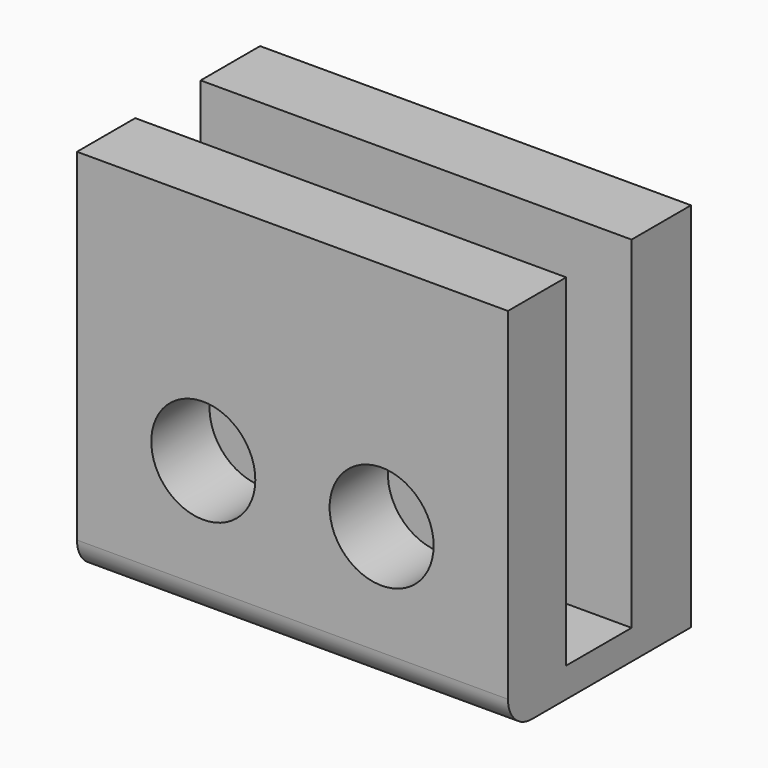
from build123d import *

# Parameters (mm, degrees)
F0_W     = 29
F0_H     = 4.9
F0_H_2   = 5.5
F0_R     = 1
F0_H_3   = 5
F1_DEPTH = 2
F2_DEPTH = 25
F3_R     = 1
F4_DEPTH = 25
F3_R_2   = 3.5
F5_DEPTH = 13
F6_R     = 2


with BuildPart() as f1:
    # F0 (on Top) → F1 (new body)
    with BuildSketch(Plane.XY):
        with Locations((0, -7.95)):
            Rectangle(F0_W, F0_H)
        with Locations((0, -2.75)):
            Rectangle(F0_W, F0_H_2)
        with Locations((0, -3)):
            Circle(F0_R, mode=Mode.SUBTRACT)
        with Locations((0, 2.5)):
            Rectangle(F0_W, F0_H_3)
    extrude(amount=F1_DEPTH)

    # F0 (on Top) → F2 (join)
    with BuildSketch(Plane.XY):
        with Locations((0, -7.95)):
            Rectangle(F0_W, F0_H)
        with Locations((0, 2.5)):
            Rectangle(F0_W, F0_H_3)
    extrude(amount=F2_DEPTH)

    # F3 (on face) → F4 (cut)
    with BuildSketch(Plane.XZ.offset(10.4)):
        with Locations((6, 9.462781)):
            Circle(F3_R)
        with Locations((-6, 9.462781)):
            Circle(F3_R)
    extrude(amount=-F4_DEPTH, mode=Mode.SUBTRACT)

    # F3 (on face) → F5 (cut)
    with BuildSketch(Plane.XZ.offset(10.4)):
        with Locations((-6, 9.462781)):
            Circle(F3_R_2)
        with Locations((-6, 9.462781)):
            Circle(F3_R, mode=Mode.SUBTRACT)
        with Locations((6, 9.462781)):
            Circle(F3_R_2)
        with Locations((6, 9.462781)):
            Circle(F3_R, mode=Mode.SUBTRACT)
    extrude(amount=-F5_DEPTH, mode=Mode.SUBTRACT)

    # F6
    f6_edges = [f1.edges().sort_by_distance(p)[0] for p in [
        (0, -10.4, 0),
    ]]
    fillet(f6_edges, radius=F6_R)


solid = f1.part
